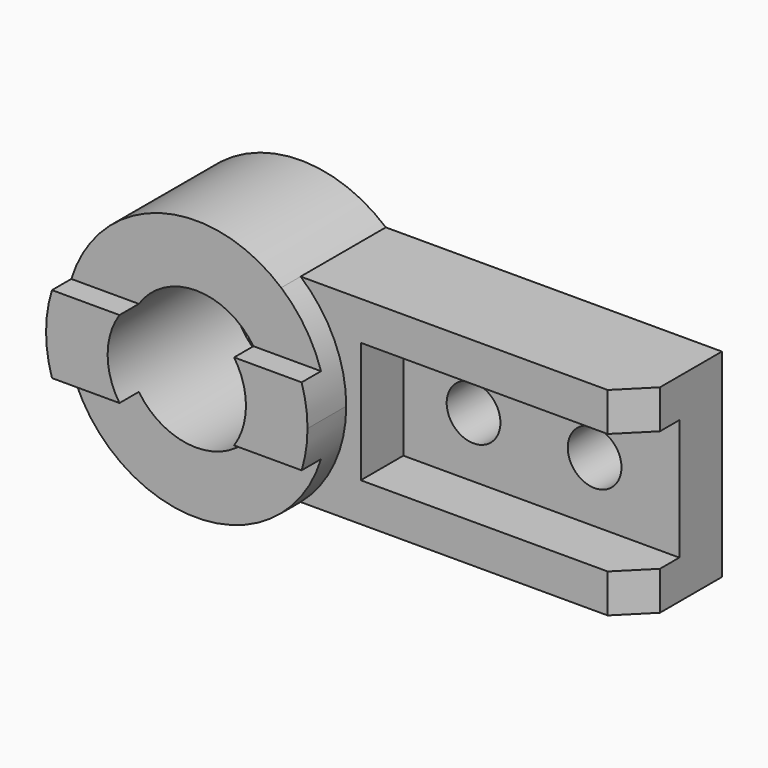
from build123d import *

# Parameters (mm, degrees)
F0_R     = 28.575
F1_DEPTH = 64
F0_R_2   = 11.1
F2_DEPTH = 44
F3_W     = 10
F3_H     = 38
F4_DEPTH = 54
F6_W     = 22
F6_H     = 50
F7_DEPTH = 114
F9_DEPTH = 41


with BuildPart() as f1:
    # F0 (on Front) → F1 (new body)
    with BuildSketch(Plane.XZ):
        with BuildLine():
            ThreePointArc((35.1425667816, -41), (49.0596504584, -22.5643678594), (54, 0))
            ThreePointArc((54, 0), (49.0596504584, 22.5643678594), (35.1425667816, 41))
            ThreePointArc((35.1425667816, 41), (-54, 0), (35.1425667816, -41))
        make_face()
        Circle(F0_R, mode=Mode.SUBTRACT)
    extrude(amount=F1_DEPTH)

    # F0 (on Front) → F2 (join)
    with BuildSketch(Plane.XZ):
        with BuildLine():
            ThreePointArc((35.1425667816, 41), (49.0596504584, 22.5643678594), (54, 0))
            ThreePointArc((54, 0), (49.0596504584, -22.5643678594), (35.1425667816, -41))
            Line((35.1425667816, -41), (174, -41))
            Line((174, -41), (174, 41))
            Line((174, 41), (35.1425667816, 41))
        make_face()
        with Locations((89, 0)):
            Circle(F0_R_2, mode=Mode.SUBTRACT)
        with Locations((139, 0)):
            Circle(F0_R_2, mode=Mode.SUBTRACT)
    extrude(amount=F2_DEPTH)

    # F3 (on Right) → F4 (cut, symmetric)
    with BuildSketch(Plane.YZ):
        with Locations((-59, -35)):
            Rectangle(F3_W, F3_H)
        with Locations((-59, 35)):
            Rectangle(F3_W, F3_H)
    extrude(amount=F4_DEPTH, both=True, mode=Mode.SUBTRACT)

    # F6 (on offset) → F7 (cut)
    with BuildSketch(Plane.YZ.offset(174)):
        with Locations((-33, 0)):
            Rectangle(F6_W, F6_H)
    extrude(amount=-F7_DEPTH, mode=Mode.SUBTRACT)

    # F8 (on Top) → F9 (cut, symmetric)
    with BuildSketch(Plane.XY):
        Polygon((174, -32), (162, -44), (174, -44), align=None)
    extrude(amount=F9_DEPTH, both=True, mode=Mode.SUBTRACT)


solid = f1.part
